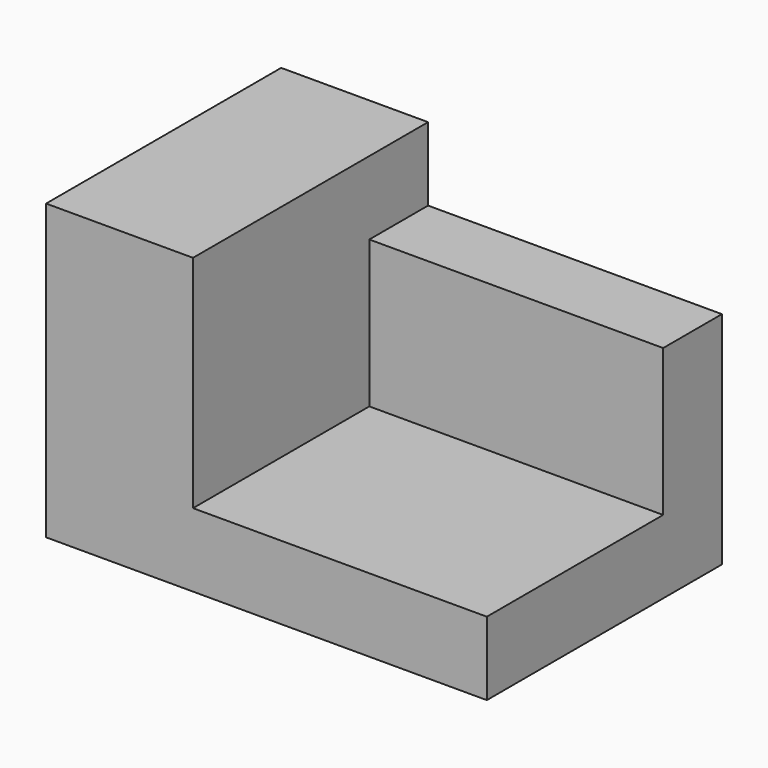
from build123d import *

# Parameters (mm, degrees)
F2_DEPTH = 38.1
F3_DEPTH = 25.4


with BuildPart() as f2:
    # F0 (on Right) → F2 (new body)
    with BuildSketch(Plane.YZ):
        Polygon((0, 6.35), (0, 0), (25.4, 0), (25.4, 19.05), (19.05, 19.05), (19.05, 6.35), align=None)
    extrude(amount=F2_DEPTH)

    # F1 (on Front) → F3 (join)
    with BuildSketch(Plane.XZ):
        Polygon((0, 25.4), (0, 0), (38.1, 0), (38.1, 6.35), (12.7, 6.35), (12.7, 19.05), (12.7, 25.4), align=None)
    extrude(amount=-F3_DEPTH)


solid = f2.part
